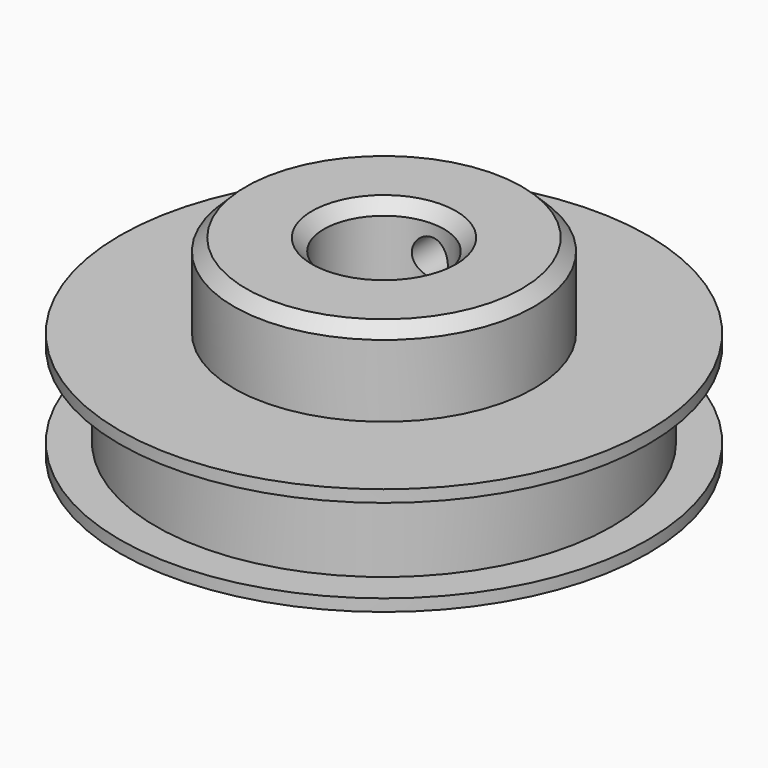
from build123d import *

# Parameters (mm, degrees)
F0_R     = 19
F0_R_2   = 5
F1_DEPTH = 3.5
F2_R     = 22
F2_R_2   = 5
F3_DEPTH = 1
F5_R     = 12.5
F5_R_2   = 5
F6_DEPTH = 7
F7_SIZE  = 1
F8_R     = 1.5
F9_DEPTH = 22.001


with BuildPart() as f1:
    # F0 (on Top) → F1 (new body, symmetric)
    with BuildSketch(Plane.XY):
        Circle(F0_R)
        Circle(F0_R_2, mode=Mode.SUBTRACT)
    extrude(amount=F1_DEPTH, both=True)

    # F2 (on face) → F3 (join)
    with BuildSketch(Plane.XY.offset(3.5)):
        Circle(F2_R)
        Circle(F2_R_2, mode=Mode.SUBTRACT)
    extrude(amount=F3_DEPTH)

    # F4: F1 across plane


with BuildPart() as f1_1:
    add(f1.part)
    add(f1.part.mirror(Plane.XY))

    # F5 (on face) → F6 (join)
    with BuildSketch(Plane.XY.offset(4.5)):
        Circle(F5_R)
        Circle(F5_R_2, mode=Mode.SUBTRACT)
    extrude(amount=F6_DEPTH)

    # F7
    f7_edges = [f1_1.edges().sort_by_distance(p)[0] for p in [
        (-12.5, 0, 11.5),
        (-5, 0, 11.5),
        (-5, 0, -4.5),
    ]]
    chamfer(f7_edges, length=F7_SIZE)

    # F8 (on Front) → F9 (cut, through all)
    with BuildSketch(Plane.XZ):
        with Locations((0, 8)):
            Circle(F8_R)
    extrude(amount=-F9_DEPTH, mode=Mode.SUBTRACT)


solid = f1_1.part
